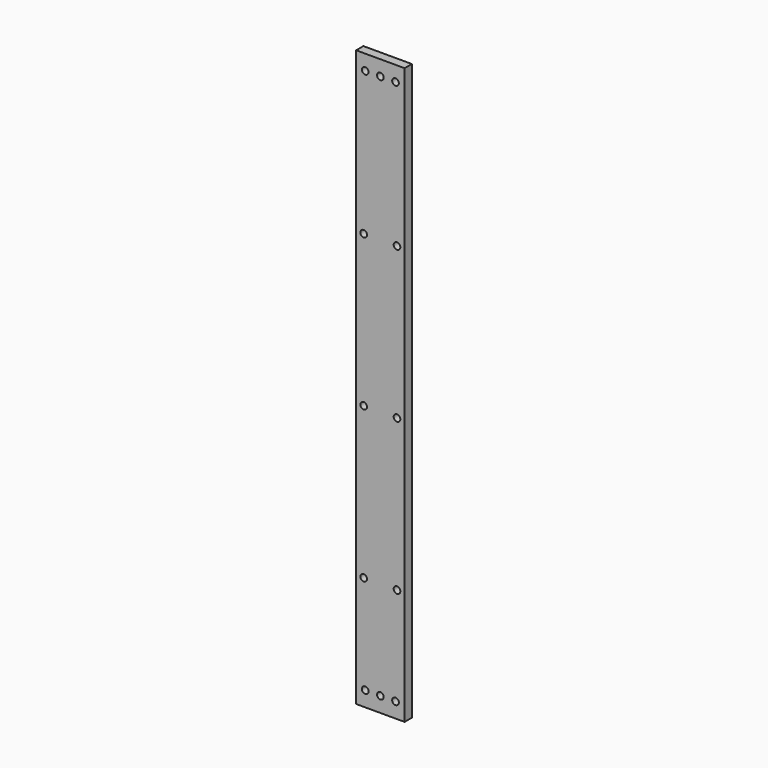
from build123d import *

# Parameters (mm, degrees)
F0_W     = 32
F0_H     = 380
F1_DEPTH = 6
F2_D     = 4.4
F2_DEPTH = 10
F2_TIP   = 1.3218933619


with BuildPart() as f1:
    # F0 (on Front) → F1 (new body)
    with BuildSketch(Plane.XZ):
        Rectangle(F0_W, F0_H)
    extrude(amount=-F1_DEPTH)

    # F2
    with Locations(Plane.XZ):
        with Locations((-10, -180), (0, -180), (10, -180), (-10, 180), (0, 180), (10, 180), (-11, -115), (11, -115), (-11, -15), (11, -15), (-11, 85), (11, 85)):
            Hole(F2_D / 2, depth=F2_DEPTH)
            with Locations((0, 0, -(F2_DEPTH + F2_TIP / 2))):  # 118° drill point
                Cone(0, F2_D / 2, F2_TIP, mode=Mode.SUBTRACT)


solid = f1.part
